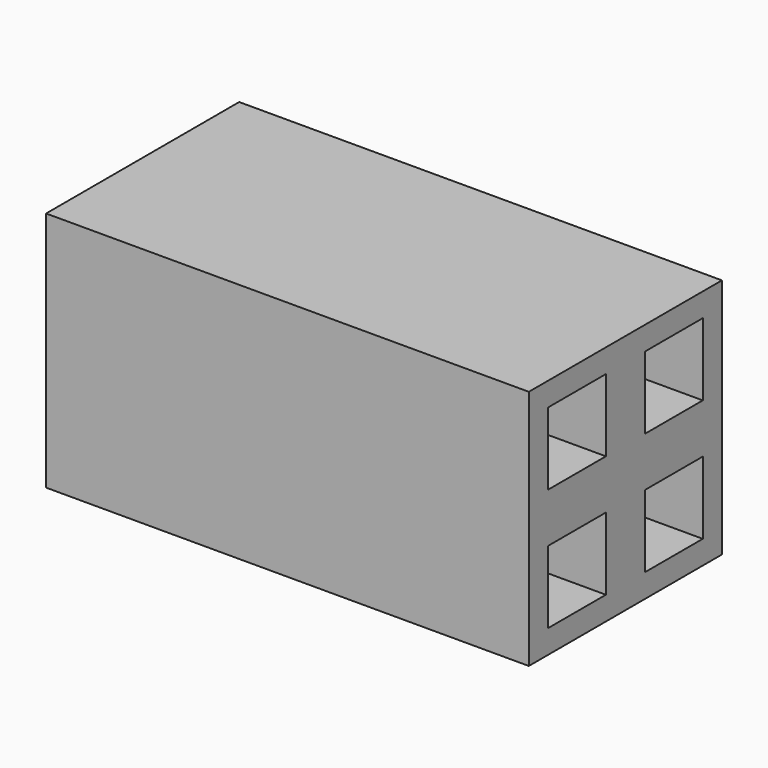
from build123d import *

# Parameters (mm, degrees)
SKETCH_W             = 100
SKETCH_H             = 100
SKETCH_W_2           = 30
SKETCH_H_2           = 30
PAD_DEPTH            = 200
BODY_PLACEMENT_ANGLE = 90


with BuildPart() as part:
    # Sketch → Pad (new body)
    with BuildSketch(Plane.XY):
        Rectangle(SKETCH_W, SKETCH_H)
        with Locations((-25.244661, 25.084817)):
            Rectangle(SKETCH_W_2, SKETCH_H_2, mode=Mode.SUBTRACT)
        with Locations((-25.244661, -25.084817)):
            Rectangle(SKETCH_W_2, SKETCH_H_2, mode=Mode.SUBTRACT)
        with Locations((25.244661, 25.084817)):
            Rectangle(SKETCH_W_2, SKETCH_H_2, mode=Mode.SUBTRACT)
        with Locations((25.244661, -25.084817)):
            Rectangle(SKETCH_W_2, SKETCH_H_2, mode=Mode.SUBTRACT)
    extrude(amount=PAD_DEPTH)


with BuildPart() as part_1:
    # Body placement: moved
    add(part.part.rotate(Axis((0, 0, 0), (0, 1, 0)), BODY_PLACEMENT_ANGLE))


solid = part_1.part
